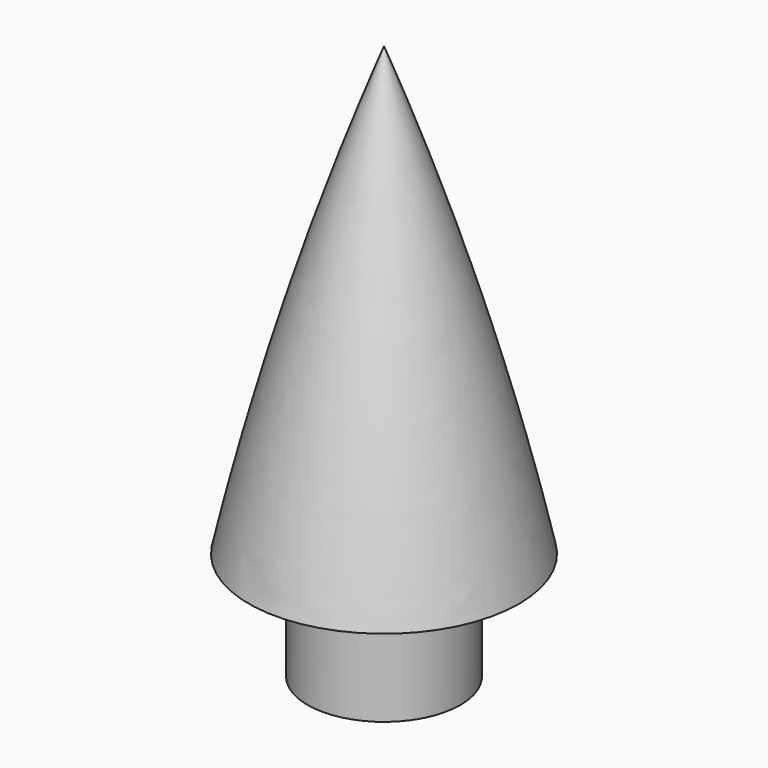
from build123d import *


with BuildPart() as f1:
    # F0 (on Front) → F1 (revolve)
    with BuildSketch(Plane.XZ):
        with BuildLine():
            Line((0, 21.047283), (0, 18.5))
            ThreePointArc((0, 18.5), (2.211034, 11.812529), (4, 5))
            Line((4, 5), (2, 5))
            Line((2, 5), (2, 0))
            Line((2, 0), (2.9, 0))
            Line((2.9, 0), (2.9, 4.1))
            Line((2.9, 4.1), (5.124142, 4.1))
            ThreePointArc((5.124142, 4.1), (2.892737, 12.673621), (0, 21.047283))
        make_face()
    revolve(axis=Axis((0, 0, 9.25), (0, 0, 1)))


solid = f1.part
